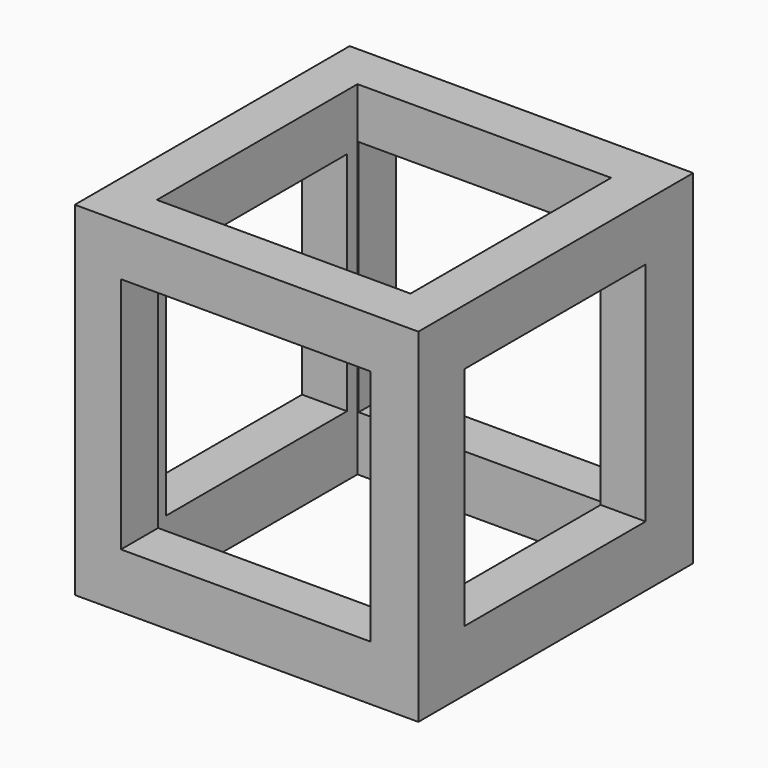
from build123d import *

# Parameters (mm, degrees)
F1_DEPTH = 25.4
F2_W     = 18.447345
F2_H     = 17.589332
F3_DEPTH = 25.4
F4_W     = 16.731317
F4_H     = 16.731312
F5_DEPTH = 25.4
F6_W     = 18.750374
F6_H     = 18.53587
F7_DEPTH = 25.4


with BuildPart() as f1:
    # F0 (on Front) → F1 (new body)
    with BuildSketch(Plane.XZ):
        Polygon((-25.4, 0), (0, 0), (0, 25.4), (-1.806476, 25.4), (-25.4, 25.4), align=None)
    extrude(amount=F1_DEPTH)

    # F2 (on face) → F3 (cut)
    with BuildSketch(Plane.XZ.offset(25.4)):
        with Locations((-12.762988, 12.870242)):
            Rectangle(F2_W, F2_H)
    extrude(amount=-F3_DEPTH, mode=Mode.SUBTRACT)

    # F4 (on face) → F5 (cut)
    with BuildSketch(Plane.YZ):
        with Locations((-12.762989, 12.870242)):
            Rectangle(F4_W, F4_H)
    extrude(amount=-F5_DEPTH, mode=Mode.SUBTRACT)

    # F6 (on face) → F7 (cut)
    with BuildSketch(Plane.XY.offset(25.4)):
        with Locations((-12.7, -12.7)):
            Rectangle(F6_W, F6_H)
    extrude(amount=-F7_DEPTH, mode=Mode.SUBTRACT)


solid = f1.part
